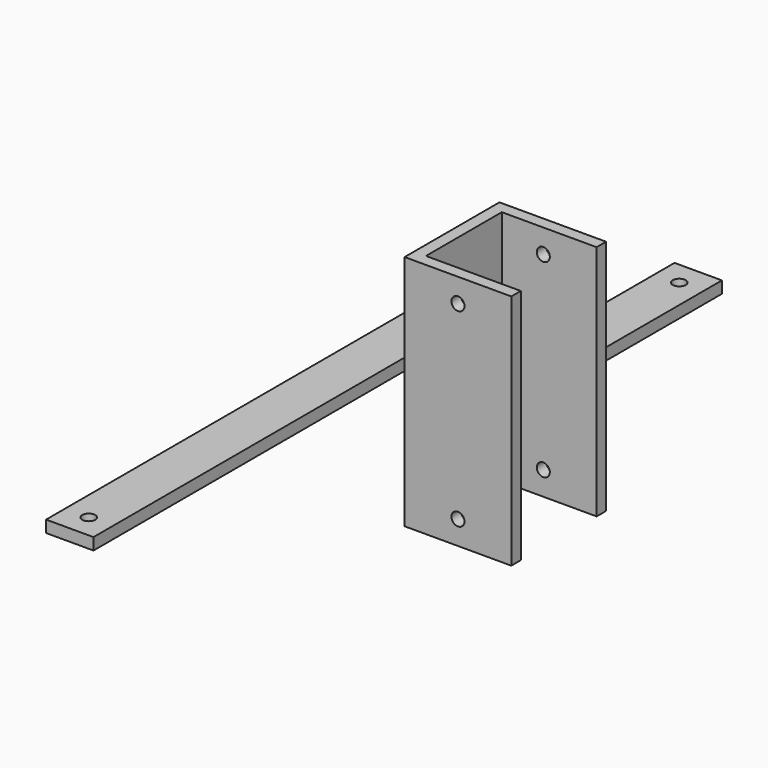
from build123d import *

# Parameters (mm, degrees)
F0_W     = 25.4
F0_H     = 304.8
F0_R     = 3.5
F0_H_2   = 127
F1_DEPTH = 6.35
F2_DEPTH = 127
F3_R     = 3.5
F4_DEPTH = 91.44


with BuildPart() as f1:
    # F0 (on Top) → F1 (new body)
    with BuildSketch(Plane.XY):
        with Locations((-42.358236, 78.718602)):
            Rectangle(F0_W, F0_H)
        with Locations((-42.358236, -60.981398)):
            Circle(F0_R, mode=Mode.SUBTRACT)
        with Locations((-42.358236, 218.418602)):
            Circle(F0_R, mode=Mode.SUBTRACT)
        with Locations((17.643214, 208.703248)):
            Rectangle(F0_W, F0_H_2)
        with Locations((17.643214, 157.903248)):
            Circle(F0_R, mode=Mode.SUBTRACT)
        with Locations((17.643214, 259.503248)):
            Circle(F0_R, mode=Mode.SUBTRACT)
    extrude(amount=F1_DEPTH)


with BuildPart() as f2:
    # F0 (on Top) → F2 (new body)
    with BuildSketch(Plane.XY):
        Polygon((115.401124, 88.311218), (58.251124, 88.311218), (58.251124, 24.811218), (115.401124, 24.811218), (115.401124, 31.161218), (64.601124, 31.161218), (64.601124, 81.961218), (115.401124, 81.961218), align=None)
    extrude(amount=F2_DEPTH)

    # F3 (on face) → F4 (cut)
    with BuildSketch(Plane.XZ.offset(-24.811218)):
        with Locations((86.826124, 114.3)):
            Circle(F3_R)
        with Locations((86.826124, 12.7)):
            Circle(F3_R)
    extrude(amount=-F4_DEPTH, mode=Mode.SUBTRACT)


solid = Compound([f1.part, f2.part])
